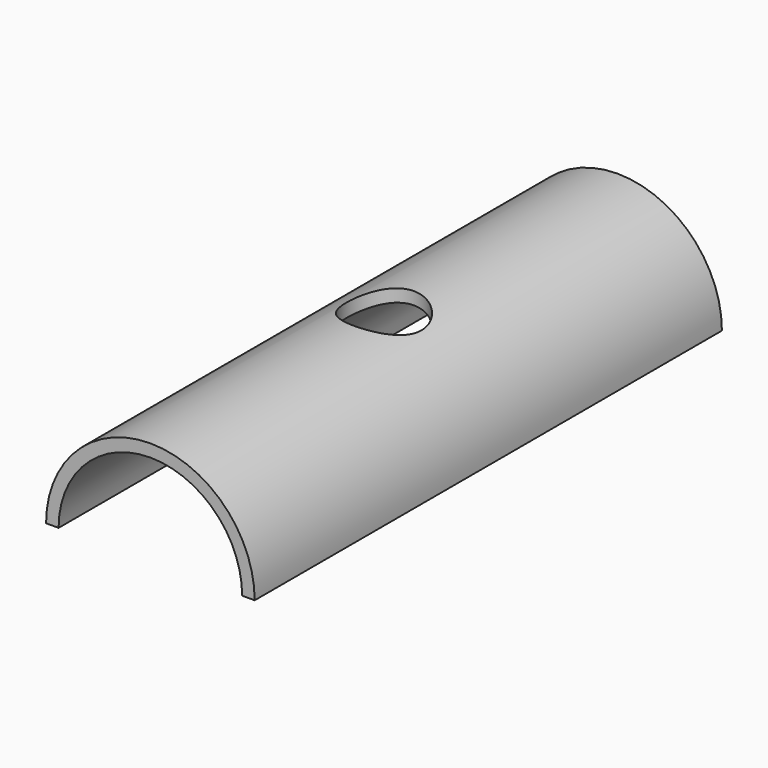
from build123d import *

# Parameters (mm, degrees)
F0_R     = 1250
F0_R_2   = 1100
F1_DEPTH = 7000
F2_W     = 4350.551486
F2_H     = 1751.117468
F3_DEPTH = 8000
F4_R     = 450
F5_DEPTH = 10000


with BuildPart() as f1:
    # F0 (on Front) → F1 (new body)
    with BuildSketch(Plane.XZ):
        Circle(F0_R)
        Circle(F0_R_2, mode=Mode.SUBTRACT)
    extrude(amount=F1_DEPTH)

    # F2 (on Front) → F3 (cut)
    with BuildSketch(Plane.XZ):
        with Locations((180.131257, -875.558734)):
            Rectangle(F2_W, F2_H)
    extrude(amount=F3_DEPTH, mode=Mode.SUBTRACT)

    # F4 (on Top) → F5 (cut)
    with BuildSketch(Plane.XY):
        with Locations((0, -3500)):
            Circle(F4_R)
    extrude(amount=F5_DEPTH, mode=Mode.SUBTRACT)


solid = f1.part
